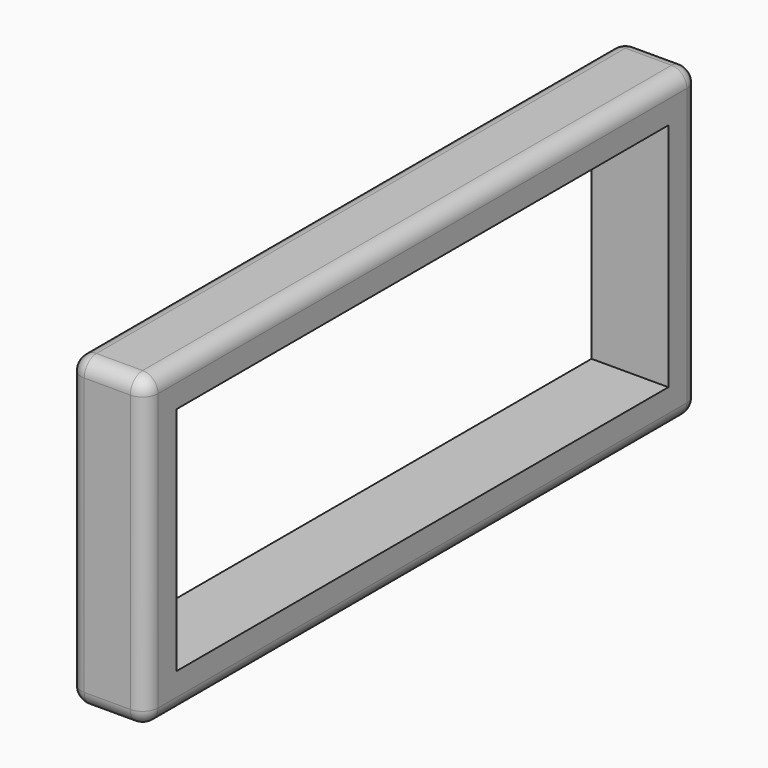
from build123d import *

# Parameters (mm, degrees)
F0_W     = 228.6
F0_H     = 101.6
F0_W_2   = 203.2
F0_H_2   = 76.2
F1_DEPTH = 25.4
F2_R     = 5.08


with BuildPart() as f1:
    # F0 (on Right) → F1 (new body)
    with BuildSketch(Plane.YZ):
        with Locations((4.664257, 3.562307)):
            Rectangle(F0_W, F0_H)
        with Locations((4.664257, 3.562307)):
            Rectangle(F0_W_2, F0_H_2, mode=Mode.SUBTRACT)
    extrude(amount=F1_DEPTH)

    # F2
    f2_edges = [f1.edges().sort_by_distance(p)[0] for p in [
        (12.7, 118.964257, 54.362307),
        (12.7, -109.635743, 54.362307),
        (0, 4.664257, 54.362307),
        (25.4, 4.664257, 54.362307),
        (12.7, -109.635743, -47.237693),
        (0, -109.635743, 3.562307),
        (25.4, -109.635743, 3.562307),
        (12.7, 118.964257, -47.237693),
        (0, 118.964257, 3.562307),
        (25.4, 118.964257, 3.562307),
        (0, 4.664257, -47.237693),
        (25.4, 4.664257, -47.237693),
    ]]
    fillet(f2_edges, radius=F2_R)


solid = f1.part
